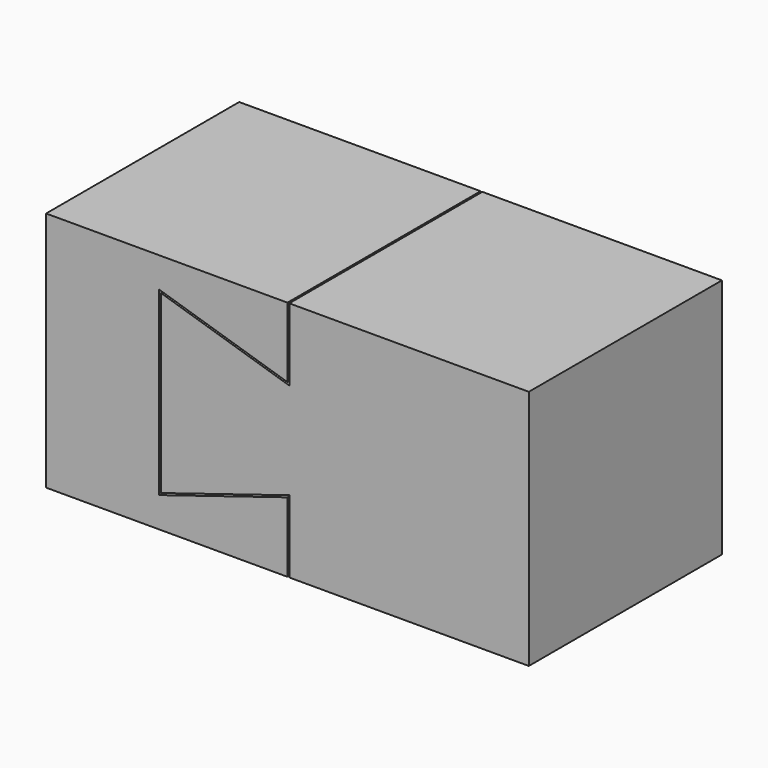
from build123d import *

# Parameters (mm, degrees)
F0_W     = 40
F0_H     = 20
F1_DEPTH = 20
F3_DEPTH = 25


with BuildPart() as f1:
    # F0 (on Top) → F1 (new body)
    with BuildSketch(Plane.XY):
        Rectangle(F0_W, F0_H)
    extrude(amount=F1_DEPTH)

    # F2 (on face) → F3 (cut)
    with BuildSketch(Plane(origin=(0, 10, 0), x_dir=(-1, 0, 0), z_dir=(0, 1, 0))):
        Polygon((-0.15, 0), (0, 0), (0, 5.796487), (10.638921, 2.5), (10.638921, 17.5), (0, 14.203513), (0, 20), (-0.15, 20), (-0.15, 14), (10.459489, 17.287367), (10.459489, 2.712633), (-0.15, 6), align=None)
    extrude(amount=-F3_DEPTH, mode=Mode.SUBTRACT)


solid = f1.part
